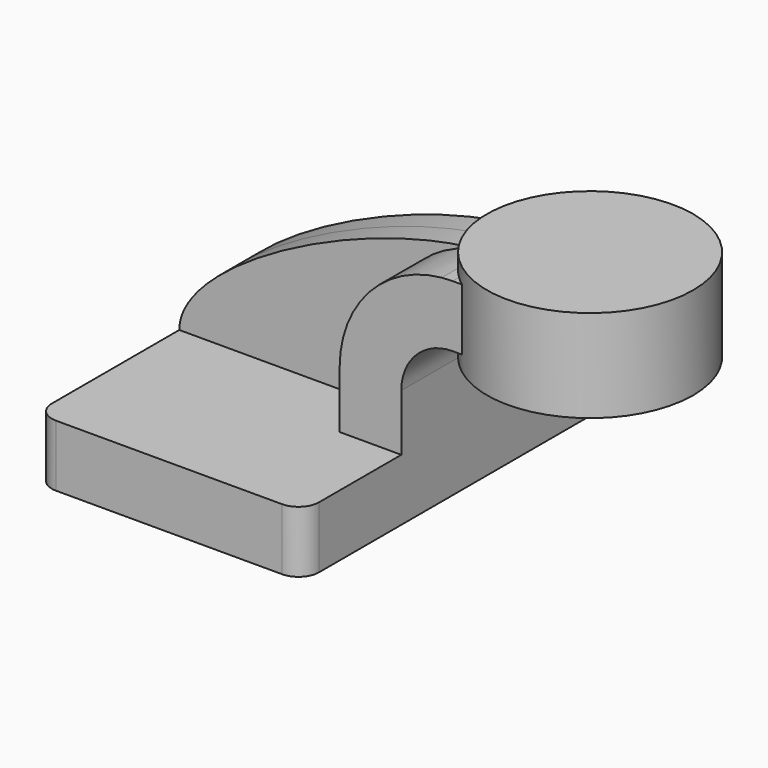
from build123d import *

# Parameters (mm, degrees)
F1_DEPTH = 63.5
F0_W     = 18.940978
F0_H     = 4.7752
F2_DEPTH = 25.4
F3_DEPTH = 7.9375
F5_R     = 6.35


with BuildPart() as f1:
    # F0 (on Front) → F1 (new body, symmetric)
    with BuildSketch(Plane.XZ):
        Polygon((22.225, 9.525), (-41.275, 9.525), (-41.275, -9.525), (41.275, -9.525), (41.275, 9.525), align=None)
    extrude(amount=F1_DEPTH, both=True)

    # F0 (on Front) → F2 (join, symmetric)
    with BuildSketch(Plane.XZ):
        with BuildLine():
            Line((22.225, 27.0002), (22.225, 9.525))
            Line((22.225, 9.525), (41.275, 9.525))
            Line((41.275, 9.525), (41.275, 27.0002))
            ThreePointArc((41.275, 27.0002), (45.92468, 38.22552), (57.15, 42.8752))
            Line((57.15, 42.8752), (60.325, 42.8752))
            Line((60.325, 42.8752), (60.325, 61.9252))
            Line((60.325, 61.9252), (57.15, 61.9252))
            add(Edge.make_bspline(
                [(53.775986, 61.761841), (54.917226, 61.840319), (56.042547, 61.89509), (57.15, 61.9252)],
                knots=[108.292416, 108.292416, 108.292416, 108.292416, 111.504536, 111.504536, 111.504536, 111.504536], degree=3))
            ThreePointArc((53.775986, 61.761841), (31.288899, 50.472718), (22.225, 27.0002))
        make_face()
        with Locations((69.795489, 40.4876)):
            Rectangle(F0_W, F0_H)
    extrude(amount=F2_DEPTH, both=True)

    # F0 (on Front) → F3 (join, symmetric)
    with BuildSketch(Plane.XZ):
        with BuildLine():
            add(Edge.make_bspline(
                [(-41.275, 9.525), (-41.269137, 29.523659), (15.30057, 59.116032), (53.775986, 61.761841)],
                knots=[0, 0, 0, 0, 108.292416, 108.292416, 108.292416, 108.292416], degree=3))
            Line((-41.275, 9.525), (22.225, 9.525))
            Line((22.225, 9.525), (22.225, 27.0002))
            ThreePointArc((22.225, 27.0002), (31.288899, 50.472718), (53.775986, 61.761841))
        make_face()
    extrude(amount=F3_DEPTH, both=True)

    # F0 (on Front) → F4 (revolve)
    with BuildSketch(Plane.XZ):
        Polygon((79.265978, 66.675), (79.265978, 61.9252), (79.265978, 49.505379), (79.265978, 42.8752), (79.265978, 38.1), (111.125, 38.1), (111.125, 66.675), align=None)
    revolve(axis=Axis((79.265978, 0, 52.3875), (0, 0, -1)))

    # F5
    f5_edges = [f1.edges().sort_by_distance(p)[0] for p in [
        (41.275, -63.5, 0),
        (-41.275, -63.5, 0),
        (41.275, 63.5, 0),
        (-41.275, 63.5, 0),
    ]]
    fillet(f5_edges, radius=F5_R)


solid = f1.part
